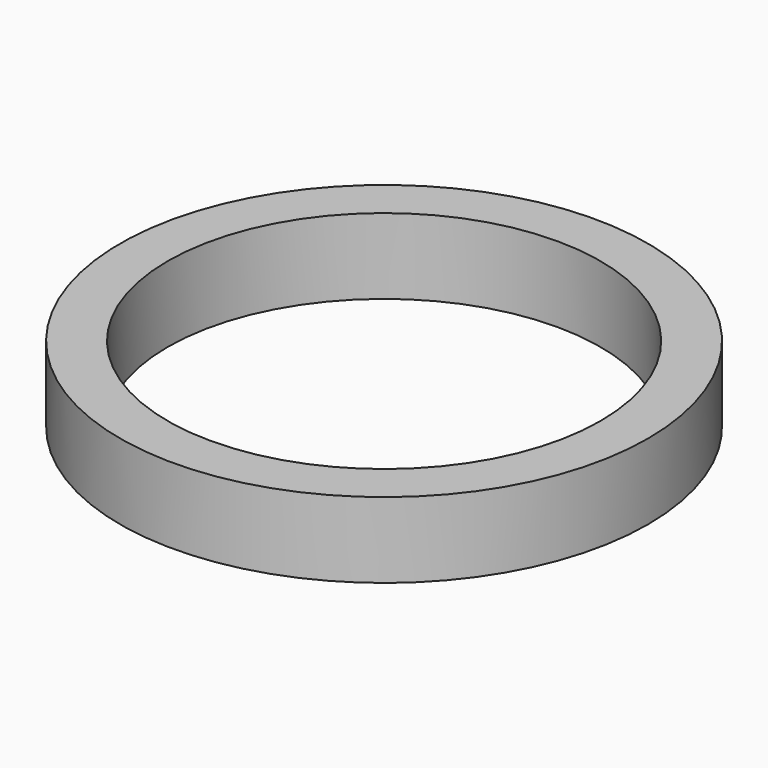
from build123d import *

# Parameters (mm, degrees)
F0_R     = 87.301563
F1_DEPTH = 25
F2_R     = 71.58419
F3_DEPTH = 25


with BuildPart() as f1:
    # F0 (on Top) → F1 (new body)
    with BuildSketch(Plane.XY):
        Circle(F0_R)
        Circle(F0_R)
    extrude(amount=F1_DEPTH)

    # F2 (on face) → F3 (cut)
    with BuildSketch(Plane(origin=(0, 0, 0), x_dir=(1, 0, 0), z_dir=(0, 0, -1))):
        Circle(F2_R)
    extrude(amount=-F3_DEPTH, mode=Mode.SUBTRACT)


solid = f1.part
